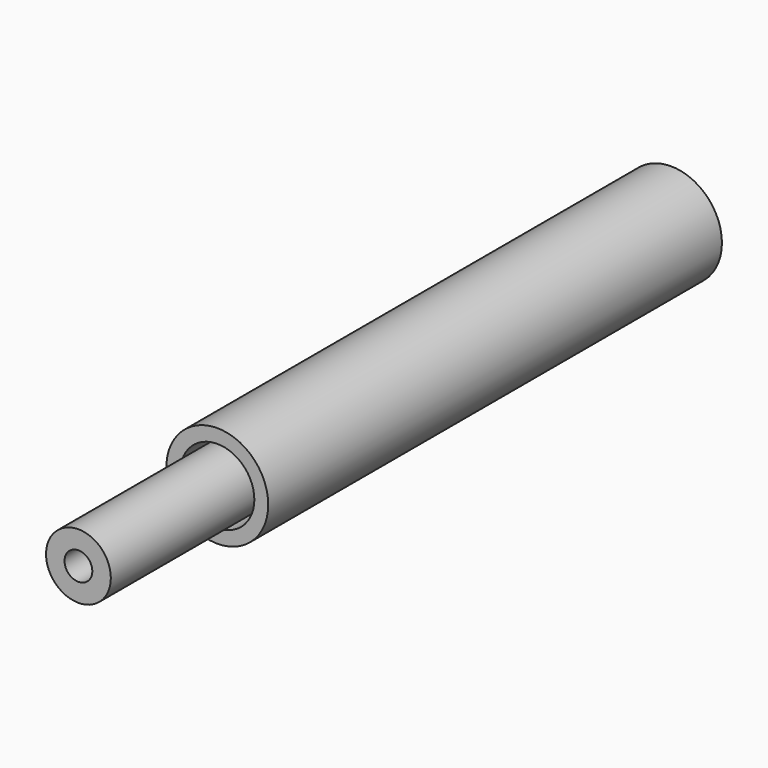
from build123d import *

# Parameters (mm, degrees)
SKETCH053_R    = 11
SKETCH053_R_2  = 8
PAD_DEPTH      = 115
PAD_DEPTH_BACK = 7.5
SKETCH054_R    = 11
SKETCH054_R_2  = 3
PAD025_DEPTH   = 10
SKETCH055_R    = 7
SKETCH055_R_2  = 3
PAD026_DEPTH   = 45


with BuildPart() as part:
    # Sketch053 → Pad (new body, two sides)
    with BuildSketch(Plane.XZ) as pad_sk:
        Circle(SKETCH053_R)
        Circle(SKETCH053_R_2, mode=Mode.SUBTRACT)
    extrude(amount=-PAD_DEPTH)
    extrude(pad_sk.sketch, amount=PAD_DEPTH_BACK)

    # Sketch054 → Pad025 (join)
    with BuildSketch(Plane.XZ):
        Circle(SKETCH054_R)
        Circle(SKETCH054_R_2, mode=Mode.SUBTRACT)
    extrude(amount=-PAD025_DEPTH)

    # Sketch055 → Pad026 (join)
    with BuildSketch(Plane.XZ):
        Circle(SKETCH055_R)
        Circle(SKETCH055_R_2, mode=Mode.SUBTRACT)
    extrude(amount=PAD026_DEPTH)


solid = part.part
